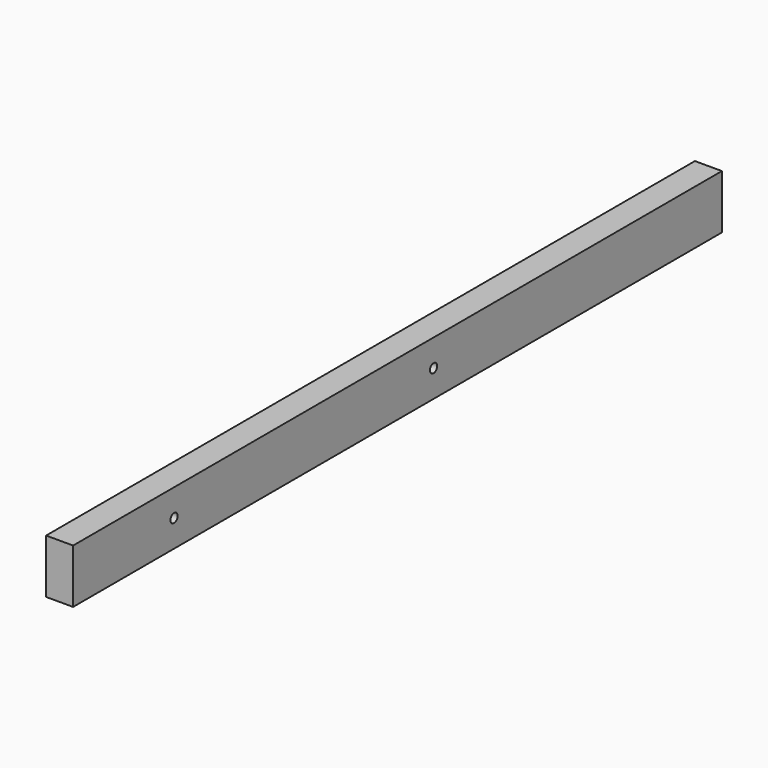
from build123d import *

# Parameters (mm, degrees)
F0_W     = 19.05
F0_H     = 38.1
F1_DEPTH = 571.5
F3_D     = 6.35


with BuildPart() as f1:
    # F0 (on Front) → F1 (new body)
    with BuildSketch(Plane.XZ):
        Rectangle(F0_W, F0_H)
    extrude(amount=-F1_DEPTH)

    # F3 (through all)
    with Locations(Plane.YZ.offset(9.525)):
        with Locations((88.9, 0), (317.5, 0)):
            Hole(F3_D / 2)


solid = f1.part
